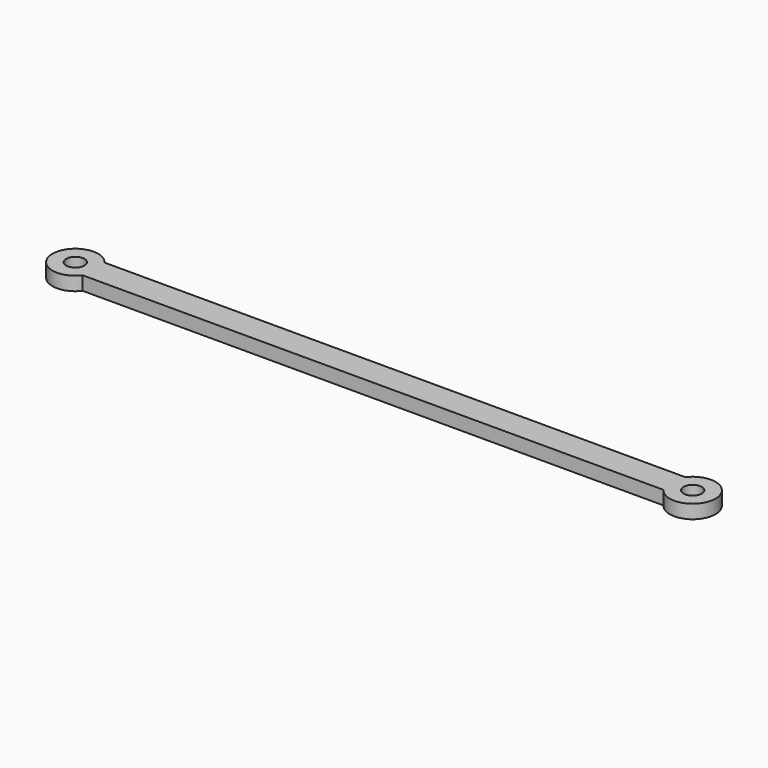
from build123d import *

# Parameters (mm, degrees)
F1_DEPTH = 3
F2_R     = 2
F3_DEPTH = 25


with BuildPart() as f1:
    # F0 (on Top) → F1 (new body)
    with BuildSketch(Plane.XY):
        with BuildLine():
            Line((63.5, 3), (-63.5, 3))
            ThreePointArc((-63.5, 3), (-72.5, 0), (-63.5, -3))
            Line((-63.5, -3), (63.5, -3))
            ThreePointArc((63.5, -3), (72.5, 0), (63.5, 3))
        make_face()
    extrude(amount=F1_DEPTH)

    # F2 (on Top) → F3 (cut)
    with BuildSketch(Plane.XY):
        with Locations((67.5, 0)):
            Circle(F2_R)
        with Locations((-67.5, 0)):
            Circle(F2_R)
    extrude(amount=F3_DEPTH, mode=Mode.SUBTRACT)


solid = f1.part
